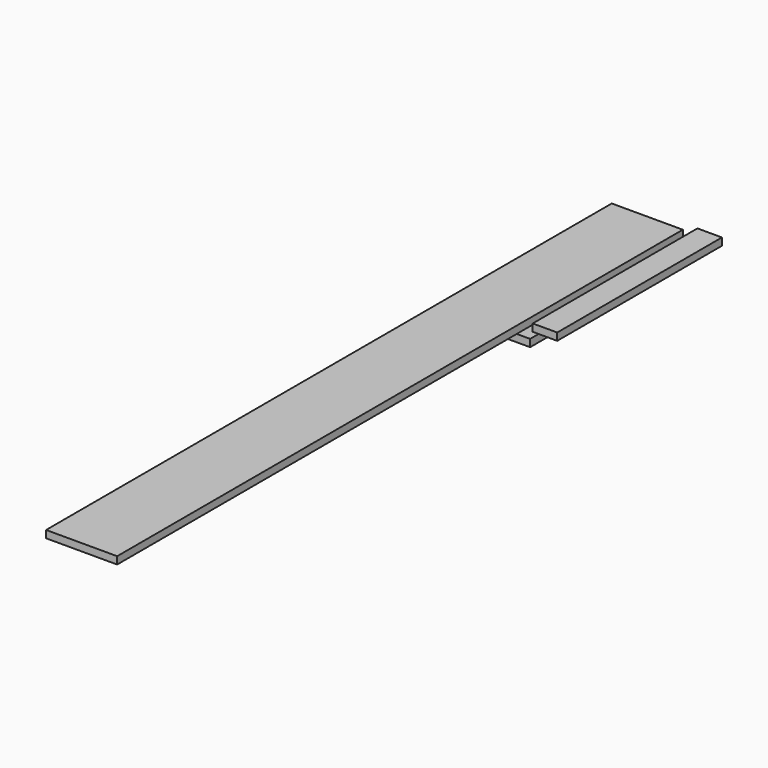
from build123d import *

# Parameters (mm, degrees)
F0_W     = 184.15
F0_H     = 19.05
F1_DEPTH = 1831.975
F0_W_2   = 63.5
F2_DEPTH = 533.4
F3_DEPTH = 495.3


with BuildPart() as f1:
    # F0 (on Front) → F1 (new body)
    with BuildSketch(Plane.XZ):
        with Locations((-123.456841, 84.800116)):
            Rectangle(F0_W, F0_H)
    extrude(amount=F1_DEPTH)


with BuildPart() as f2:
    # F0 (on Front) → F2 (new body)
    with BuildSketch(Plane.XZ):
        with Locations((38.172128, 100.0977)):
            Rectangle(F0_W_2, F0_H)
    extrude(amount=F2_DEPTH)


with BuildPart() as f3:
    # F0 (on Front) → F3 (new body)
    with BuildSketch(Plane.XZ):
        with Locations((-122.85168, 37.331249)):
            Rectangle(F0_W, F0_H)
    extrude(amount=F3_DEPTH)


solid = Compound([f1.part, f2.part, f3.part])
